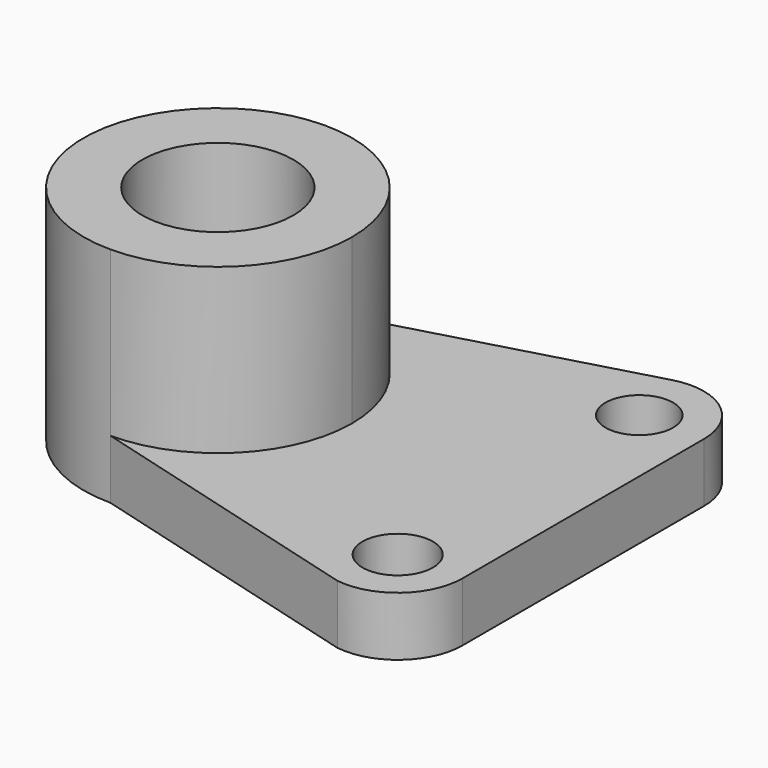
from build123d import *

# Parameters (mm, degrees)
F0_R     = 14.2875
F1_DEPTH = 42.2148
F0_R_2   = 6.669194
F0_R_3   = 6.405374
F2_DEPTH = 11.176


with BuildPart() as f1:
    # F0 (on Top) → F1 (new body)
    with BuildSketch(Plane.XY):
        with BuildLine():
            ThreePointArc((0, -25.4), (17.960512, -17.960512), (25.4, 0))
            ThreePointArc((25.4, 0), (17.960512, 17.960512), (0, 25.4))
            ThreePointArc((0, 25.4), (-25.4, 0), (0, -25.4))
        make_face()
        Circle(F0_R, mode=Mode.SUBTRACT)
    extrude(amount=F1_DEPTH)

    # F0 (on Top) → F2 (join)
    with BuildSketch(Plane.XY):
        with BuildLine():
            ThreePointArc((0, 25.4), (17.960512, 17.960512), (25.4, 0))
            ThreePointArc((25.4, 0), (17.960512, -17.960512), (0, -25.4))
            Line((0, -25.4), (55.144853, -40.682886))
            ThreePointArc((55.144853, -40.682886), (64.902158, -37.823193), (69.127533, -28.575))
            Line((69.127533, -28.575), (69.127533, 28.575))
            ThreePointArc((69.127533, 28.575), (64.304451, 38.308701), (53.638201, 40.367384))
            Line((53.638201, 40.367384), (0, 25.4))
        make_face()
        with Locations((56.893961, -28.575)):
            Circle(F0_R_2, mode=Mode.SUBTRACT)
        with Locations((56.893961, 28.575)):
            Circle(F0_R_3, mode=Mode.SUBTRACT)
    extrude(amount=F2_DEPTH)


solid = f1.part
